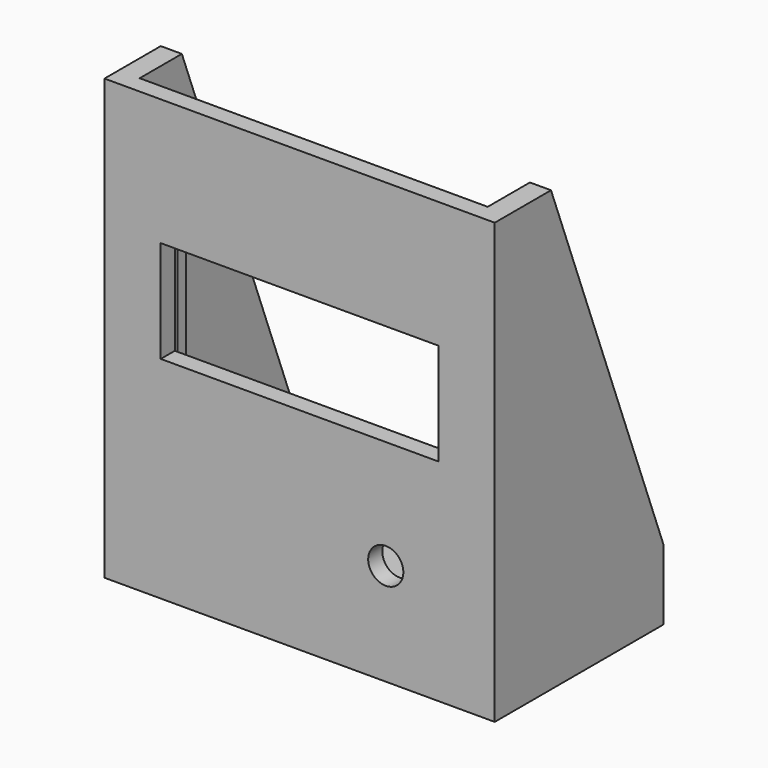
from build123d import *

# Parameters (mm, degrees)
CYLINDER056_R     = 1.6
CYLINDER056_DEPTH = 10
CYLINDER057_R     = 5
CYLINDER057_DEPTH = 25
BOX014_W          = 79
BOX014_H          = 10
BOX014_DEPTH      = 29
BOX015_W          = 3
BOX015_H          = 3
BOX015_DEPTH      = 44
BOX016_W          = 3
BOX016_H          = 3
BOX016_DEPTH      = 44
BOX017_W          = 101
BOX017_H          = 15
BOX017_DEPTH      = 3
BOX013_W          = 99
BOX013_H          = 60
BOX013_DEPTH      = 128
EXTRUDE017_DEPTH  = 111


with BuildPart() as cono001:
    # Cone001 → Cone001 (revolve)
    with BuildSketch(Plane(origin=(0, 0, -96), x_dir=(1, 0, 0), z_dir=(0, -1, 0))):
        Polygon((0, 0), (1.6, 0), (4.1, 3), (0, 3), align=None)
    revolve(axis=Axis((0, 0, -96), (0, 0, 1)))


with BuildPart() as cilindro056:
    # Cylinder056 → Cylinder056 (new body)
    with BuildSketch(Plane.XY.offset(-106)):
        Circle(CYLINDER056_R)
    extrude(amount=CYLINDER056_DEPTH)


with BuildPart() as fusion037:
    # Fusion037 base: copy of Cilindro056
    add(cilindro056.part)

    # Fusion037: union Cono001
    add(cono001.part)


with BuildPart() as fusion037_1:
    # Fusion037 placement: moved
    add(fusion037.part.moved(Location((202, -62, 0))))


with BuildPart() as fusion038:
    # Fusion038 base: copy of Cilindro056
    add(cilindro056.part)

    # Fusion038: union Cono001
    add(cono001.part)


with BuildPart() as fusion038_1:
    # Fusion038 placement: moved
    add(fusion038.part.moved(Location((240, -83, 0))))


with BuildPart() as fusion039:
    # Fusion039 base: copy of Cilindro056
    add(cilindro056.part)

    # Fusion039: union Cono001
    add(cono001.part)


with BuildPart() as fusion039_1:
    # Fusion039 placement: moved
    add(fusion039.part.moved(Location((280, -62, 0))))


with BuildPart() as cilindro057:
    # Cylinder057 → Cylinder057 (new body)
    with BuildSketch(Plane(origin=(266, -119, -70), x_dir=(1, 0, 0), z_dir=(0, 1, 0))):
        Circle(CYLINDER057_R)
    extrude(amount=CYLINDER057_DEPTH)


with BuildPart() as fusion040:
    # Box014 → Box014 (new body)
    with BuildSketch(Plane(origin=(202, -112, -39), x_dir=(1, 0, 0), z_dir=(0, 0, 1))):
        with Locations((39.5, 5)):
            Rectangle(BOX014_W, BOX014_H)
    extrude(amount=BOX014_DEPTH)

    # Fusion040: union Fusion037, Fusion038, Fusion039, Cilindro057
    add(fusion037_1.part)
    add(fusion038_1.part)
    add(fusion039_1.part)
    add(cilindro057.part)


with BuildPart() as cubo014:
    # Box015 → Box015 (new body)
    with BuildSketch(Plane(origin=(289, -96, -55), x_dir=(1, 0, 0), z_dir=(0, 0, 1))):
        with Locations((1.5, 1.5)):
            Rectangle(BOX015_W, BOX015_H)
    extrude(amount=BOX015_DEPTH)


with BuildPart() as cubo015:
    # Box016 → Box016 (new body)
    with BuildSketch(Plane(origin=(191, -96, -55), x_dir=(1, 0, 0), z_dir=(0, 0, 1))):
        with Locations((1.5, 1.5)):
            Rectangle(BOX016_W, BOX016_H)
    extrude(amount=BOX016_DEPTH)


with BuildPart() as cubo016:
    # Box017 → Box017 (new body)
    with BuildSketch(Plane(origin=(191, -108, -58), x_dir=(1, 0, 0), z_dir=(0, 0, 1))):
        with Locations((50.5, 7.5)):
            Rectangle(BOX017_W, BOX017_H)
    extrude(amount=BOX017_DEPTH)


with BuildPart() as cubo012:
    # Box013 → Box013 (new body)
    with BuildSketch(Plane(origin=(132, 23, -93), x_dir=(1, 0, 0), z_dir=(0, 0, 1))):
        with Locations((49.5, 30)):
            Rectangle(BOX013_W, BOX013_H)
    extrude(amount=BOX013_DEPTH)


with BuildPart() as soporte_lcd:
    # Sketch013 → Extrude017 (new body)
    with BuildSketch(Plane.YZ.offset(126)):
        Polygon((18, 26), (18, -99), (78, -99), (78, -79), (38, 26), align=None)
    extrude(amount=EXTRUDE017_DEPTH)

    # Cut016: cut Cubo012
    add(cubo012.part, mode=Mode.SUBTRACT)


with BuildPart() as soporte_lcd_1:
    # Cut016 placement: moved
    add(soporte_lcd.part.moved(Location((60, -130, 0))))

    # Fusion041: union Cubo014, Cubo015, Cubo016
    add(cubo014.part)
    add(cubo015.part)
    add(cubo016.part)

    # Cut017: cut Fusion040
    add(fusion040.part, mode=Mode.SUBTRACT)


solid = soporte_lcd_1.part
